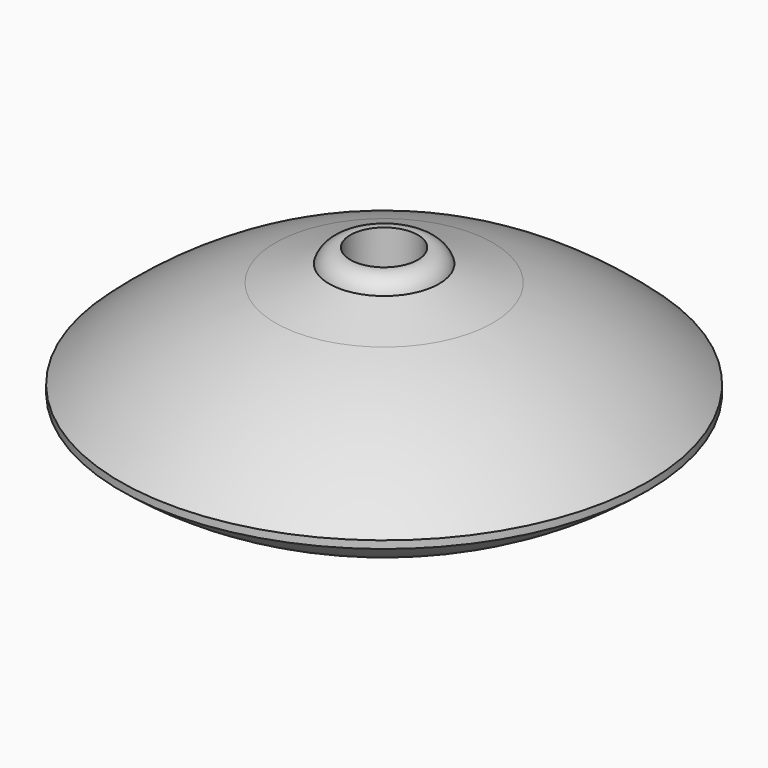
from build123d import *


with BuildPart() as f1:
    # F0 (on Front) → F1 (revolve)
    with BuildSketch(Plane.XZ):
        with BuildLine():
            Line((7.112, 25.4), (7.112, 0))
            Line((7.112, 0), (7.112, -25.4))
            ThreePointArc((7.112, -25.4), (9.874927, -24.686302), (11.578278, -22.39682))
            Line((11.578278, -22.39682), (18.123837, -16.209867))
            ThreePointArc((18.123837, -16.209867), (38.052991, -11.915091), (55.639599, -1.60357))
            Line((55.639599, -1.60357), (55.639599, 0))
            ThreePointArc((55.639599, 0), (40.297281, 11.186933), (22.911794, 18.821003))
            Line((22.911794, 18.821003), (11.578278, 22.39682))
            ThreePointArc((11.578278, 22.39682), (9.874927, 24.686302), (7.112, 25.4))
        make_face()
    revolve(axis=Axis((0, 0, 30.365005), (0, 0, 1)))


solid = f1.part
